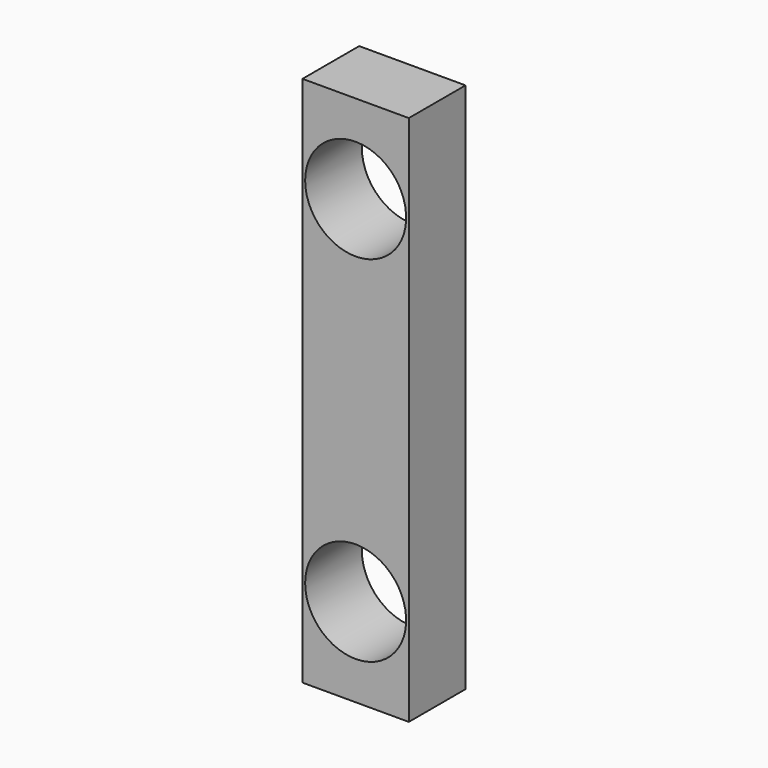
from build123d import *

# Parameters (mm, degrees)
F0_W     = 7.62
F0_H     = 38.1
F1_DEPTH = 5.08
F3_D     = 7.239


with BuildPart() as f1:
    # F0 (on Front) → F1 (new body)
    with BuildSketch(Plane.XZ):
        with Locations((-1.7278877908, 1.7497222871)):
            Rectangle(F0_W, F0_H)
    extrude(amount=F1_DEPTH)

    # F3 (through all)
    with Locations(Plane(origin=(0, 0, 0), x_dir=(1, 0, 0), z_dir=(0, 1, 0))):
        with Locations((-1.7278877908, -14.4497222871), (-1.7278877908, 10.9502777129)):
            Hole(F3_D / 2)


solid = f1.part
